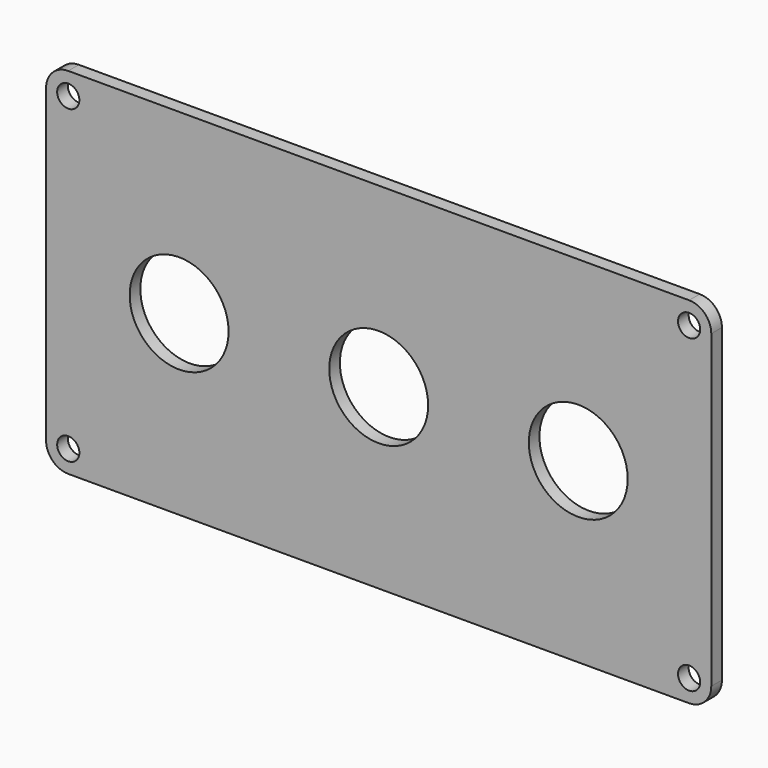
from build123d import *

# Parameters (mm, degrees)
F0_W     = 150
F0_H     = 80
F0_R     = 11.15
F1_DEPTH = 3
F2_R     = 2.5
F3_DEPTH = 3
F4_R     = 5


with BuildPart() as f1:
    # F0 (on Front) → F1 (new body)
    with BuildSketch(Plane.XZ):
        Rectangle(F0_W, F0_H)
        with Locations((-45, 0)):
            Circle(F0_R, mode=Mode.SUBTRACT)
        Circle(F0_R, mode=Mode.SUBTRACT)
        with Locations((45, 0)):
            Circle(F0_R, mode=Mode.SUBTRACT)
    extrude(amount=F1_DEPTH)

    # F2 (on face) → F3 (cut, through all)
    with BuildSketch(Plane.XZ.offset(3)):
        with Locations((-70, 35)):
            Circle(F2_R)
        with Locations((70, 35)):
            Circle(F2_R)
        with Locations((70, -35)):
            Circle(F2_R)
        with Locations((-70, -35)):
            Circle(F2_R)
    extrude(amount=-F3_DEPTH, mode=Mode.SUBTRACT)

    # F4
    f4_edges = [f1.edges().sort_by_distance(p)[0] for p in [
        (-75, -1.5, 40),
        (75, -1.5, 40),
        (75, -1.5, -40),
        (-75, -1.5, -40),
    ]]
    fillet(f4_edges, radius=F4_R)


solid = f1.part
